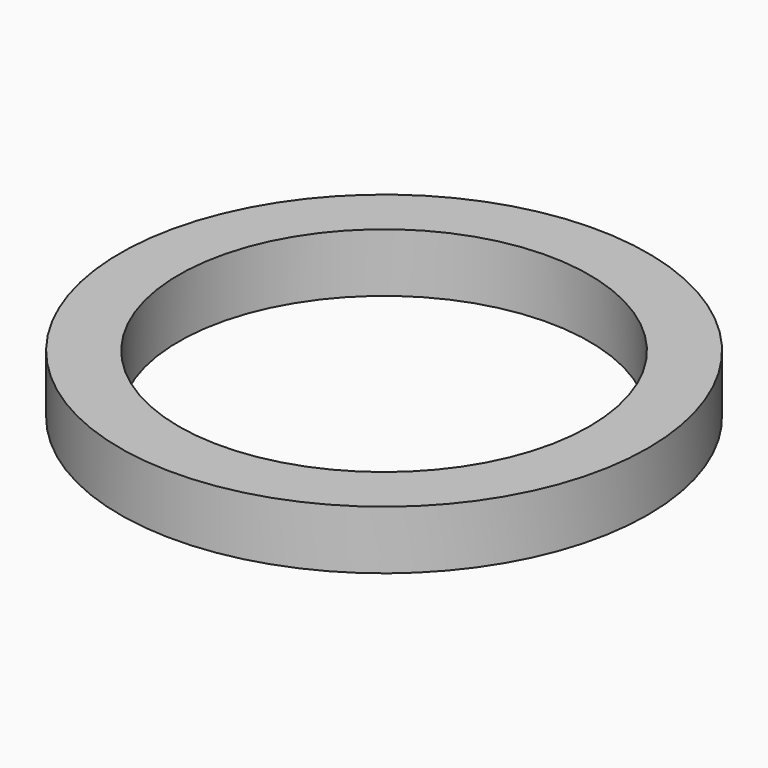
from build123d import *

# Parameters (mm, degrees)
CYLINDER012_R     = 17.5
CYLINDER012_DEPTH = 10
CYLINDER011_R     = 22.5
CYLINDER011_DEPTH = 5


with BuildPart() as cylinder012:
    # Cylinder012 → Cylinder012 (new body)
    with BuildSketch(Plane.XY):
        Circle(CYLINDER012_R)
    extrude(amount=CYLINDER012_DEPTH)


with BuildPart() as cut011:
    # Cylinder011 → Cylinder011 (new body)
    with BuildSketch(Plane.XY):
        Circle(CYLINDER011_R)
    extrude(amount=CYLINDER011_DEPTH)

    # Cut011: cut Cylinder012
    add(cylinder012.part, mode=Mode.SUBTRACT)


solid = cut011.part
